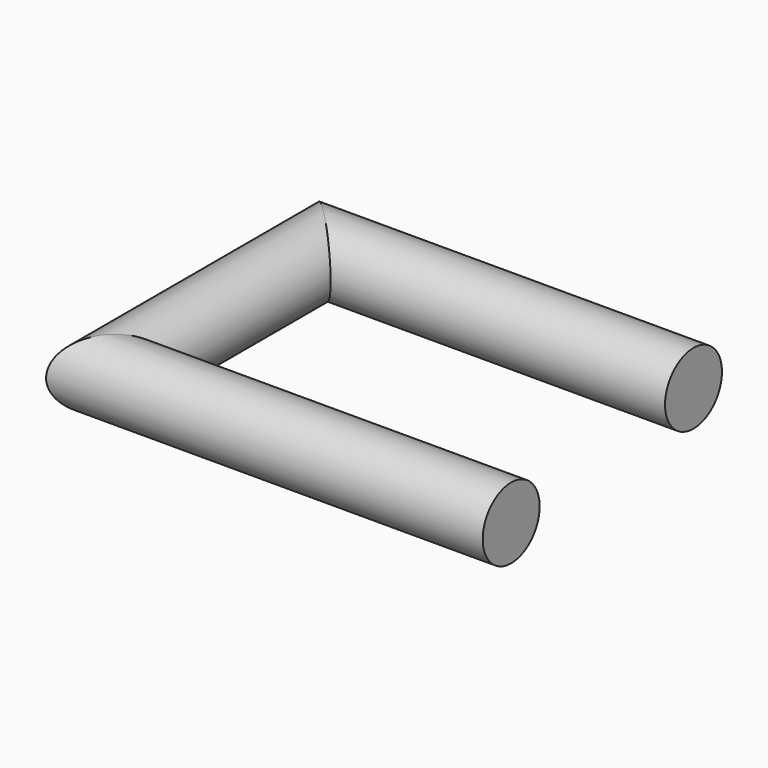
from build123d import *

# Parameters (mm, degrees)
F2_R = 6.35


with BuildPart() as f3:
    # F3: sweep along a path in F0
    with BuildLine(Plane.XY) as f3_path:
        Line((38.4379886091, -23.6895959824), (-33.0916941166, -23.6895959824))
        Line((-33.0916941166, -23.6895959824), (-33.0916941166, 23.8739531487))
        Line((-33.0916941166, 23.8739531487), (32.9073406756, 23.8739531487))
    # F2 (on plane+point) → F3 (sweep)
    with BuildSketch(Plane.YZ.offset(38.4379886091)):
        with Locations((-23.6895959824, 0)):
            Circle(F2_R)
    sweep(path=f3_path.line, transition=Transition.RIGHT)


solid = f3.part
